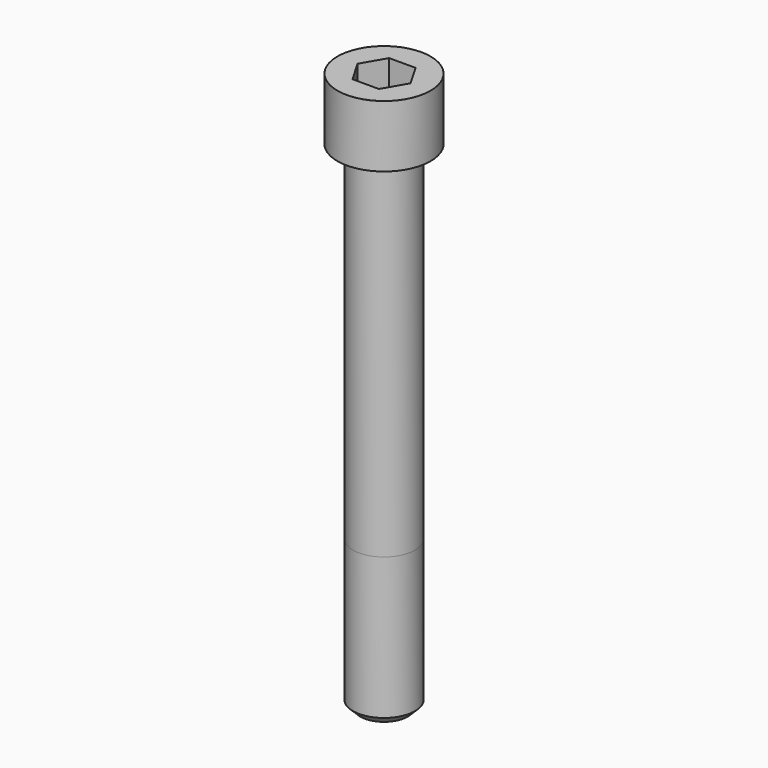
from build123d import *

# Parameters (mm, degrees)
POCKET_DEPTH = 22.15


with BuildPart() as part:
    # Sketch → Revolve (revolve)
    with BuildSketch(Plane.YZ):
        with BuildLine():
            Line((14.999, 0), (22.5, 0))
            Line((22.5, 0), (22.5, 29.97229))
            ThreePointArc((22.5, 29.97229), (22.491884, 29.991884), (22.47229, 30))
            Line((22.47229, 30), (0, 30))
            Line((0, -240), (0, 30))
            Line((11.5, -240), (0, -240))
            Line((15, -236.5), (11.5, -240))
            Line((15, -168), (15, -236.5))
            Line((14.999, 0), (15, -168))
        make_face()
    revolve(axis=Axis((0, 0, 0), (0, 0, 1)))

    # Sketch001 → Pocket (cut)
    with BuildSketch(Plane.XY.offset(30)):
        Polygon((12.788308, 0), (6.394154, 11.075), (-6.394154, 11.075), (-12.788308, 0), (-6.394154, -11.075), (6.394154, -11.075), align=None)
    extrude(amount=-POCKET_DEPTH, mode=Mode.SUBTRACT)


solid = part.part
